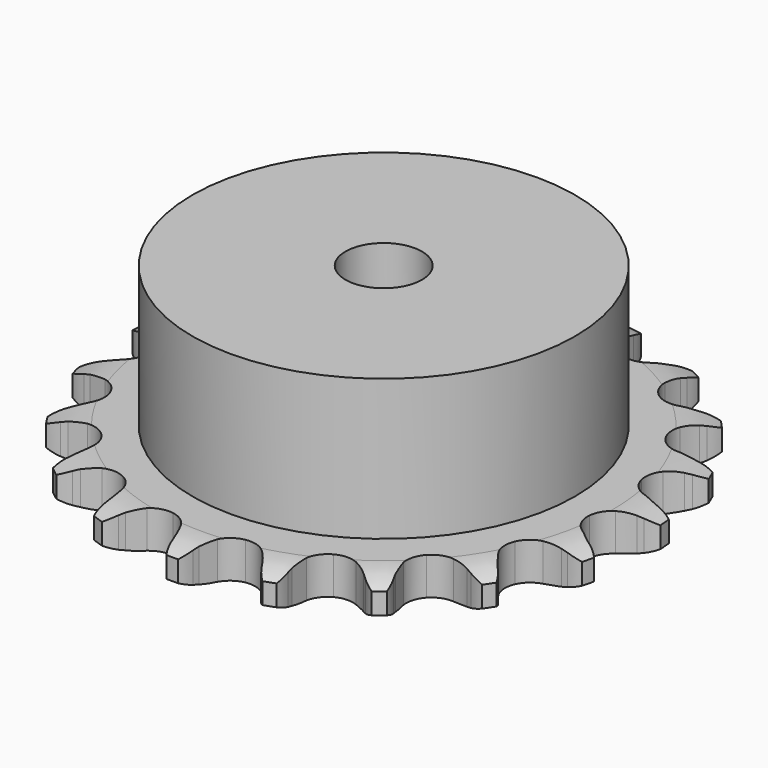
from build123d import *

# Parameters (mm, degrees)
PAD_DEPTH         = 5.9
SKETCH001_R       = 30
PAD001_DEPTH      = 28
SKETCH002_R       = 6
POCKET_DEPTH      = 0.0010001
POCKET_DEPTH_BACK = 28.001


with BuildPart() as part:
    # Sprocket → Pad (new body)
    with BuildSketch(Plane.XY):
        with BuildLine():
            ThreePointArc((-7.0122403069, 42.0220523473), (-5.7251903602, 40.8162732435), (-4.8161680281, 39.304956198))
            Line((-4.8161680281, 39.304956198), (-4.4445740823, 38.4339880913))
            ThreePointArc((-4.4445740823, 38.4339880913), (-3.8434739313, 37.2475347177), (-3.0921488771, 36.1500358968))
            ThreePointArc((-3.0921488771, 36.1500358968), (-1.7190118035, 35.0427826774), (0, 34.6471647632))
            ThreePointArc((0, 34.6471647632), (1.7190118035, 35.0427826774), (3.0921488771, 36.1500358968))
            ThreePointArc((3.0921488771, 36.1500358968), (3.8434739313, 37.2475347177), (4.4445740823, 38.4339880913))
            Line((4.4445740823, 38.4339880913), (4.8161680281, 39.304956198))
            ThreePointArc((4.8161680281, 39.304956198), (5.7251903602, 40.8162732435), (7.0122403069, 42.0220523473))
            ThreePointArc((7.0122403069, 42.0220523473), (7.8380385024, 40.4637012468), (8.2070836547, 38.7391124587))
            Line((8.2070836547, 38.7391124587), (8.2757407336, 37.7946794494))
            ThreePointArc((8.2757407336, 37.7946794494), (8.4590308397, 36.4773344923), (8.8132897456, 35.1953463384))
            ThreePointArc((8.8132897456, 35.1953463384), (9.7525019324, 33.7022302736), (11.2499160081, 32.7698858091))
            ThreePointArc((11.2499160081, 32.7698858091), (13.0042439372, 32.5859058333), (14.6625051893, 33.1873081402))
            Line((14.6625051893, 33.1873081402), (16.6832503317, 34.9083777587))
            ThreePointArc((16.6832503317, 34.9083777587), (16.9921635461, 35.2673512941), (17.3175131746, 35.611498054))
            ThreePointArc((17.3175131746, 35.611498054), (18.6680060118, 36.7457687046), (20.2768358772, 37.4683109361))
            ThreePointArc((20.2768358772, 37.4683109361), (20.5518942735, 35.7262593609), (20.3409704775, 33.9752847853))
            Line((20.3409704775, 33.9752847853), (20.0992506297, 33.0597308443))
            ThreePointArc((20.0992506297, 33.0597308443), (19.8448683639, 31.7542490704), (19.763671672, 30.4266948921))
            ThreePointArc((19.763671672, 30.4266948921), (20.1671807582, 28.7095182757), (21.2807290562, 27.3414812504))
            ThreePointArc((21.2807290562, 27.3414812504), (22.8802644588, 26.5978404698), (24.643951552, 26.6282205925))
            Line((24.643951552, 26.6282205925), (27.1140375404, 27.5999030367))
            ThreePointArc((27.1140375404, 27.5999030367), (27.5227715011, 27.839122439), (27.9422370596, 28.0589815266))
            ThreePointArc((27.9422370596, 28.0589815266), (29.5878535481, 28.6932899572), (31.3441216528, 28.8542966543))
            ThreePointArc((31.3441216528, 28.8542966543), (31.0386334047, 27.1173229232), (30.2705975264, 25.5297078244))
            Line((30.2705975264, 25.5297078244), (29.744694848, 24.7422474277))
            ThreePointArc((29.744694848, 24.7422474277), (29.0802064761, 23.5900980439), (28.5723531078, 22.3608389355))
            ThreePointArc((28.5723531078, 22.3608389355), (28.3964326229, 20.6056844985), (29.0054449066, 18.9502029514))
            ThreePointArc((29.0054449066, 18.9502029514), (30.2768533023, 17.7274863833), (31.9548433737, 17.1835521641))
            Line((31.9548433737, 17.1835521641), (34.6065980639, 17.300550564))
            ThreePointArc((34.6065980639, 17.300550564), (35.0708601042, 17.3940926992), (35.5389859908, 17.4658389708))
            ThreePointArc((35.5389859908, 17.4658389708), (37.3013980495, 17.5314480207), (39.0147854931, 17.1134716094))
            ThreePointArc((39.0147854931, 17.1134716094), (38.1618549924, 15.5698037782), (36.9199356366, 14.3175908866))
            Line((36.9199356366, 14.3175908866), (36.1668398431, 13.7435575867))
            ThreePointArc((36.1668398431, 13.7435575867), (35.1642529906, 12.8695938561), (34.2847767387, 11.871839116))
            ThreePointArc((34.2847767387, 11.871839116), (33.5484903968, 10.2689050758), (33.5869707355, 8.5053761199))
            ThreePointArc((33.5869707355, 8.5053761199), (34.3924752967, 6.9360840769), (35.8029320855, 5.8767792285))
            Line((35.8029320855, 5.8767792285), (38.3489967105, 5.126414992))
            ThreePointArc((38.3489967105, 5.126414992), (38.8184768346, 5.0641431182), (39.2845343456, 4.980001752))
            ThreePointArc((39.2845343456, 4.980001752), (40.9727572815, 4.4698016627), (42.4575919485, 3.5181363728))
            ThreePointArc((42.4575919485, 3.5181363728), (41.1496474495, 2.3350548034), (39.5684258487, 1.5539408159))
            Line((39.5684258487, 1.5539408159), (38.6697465548, 1.255540028))
            ThreePointArc((38.6697465548, 1.255540028), (37.437707064, 0.7544694818), (36.2819128267, 0.0963413178))
            ThreePointArc((36.2819128267, 0.0963413178), (35.0650486777, -1.1806695504), (34.5288271296, -2.8611401886))
            ThreePointArc((34.5288271296, -2.8611401886), (34.7811389385, -4.6069505637), (35.771217566, -6.0668339241))
            Line((35.771217566, -6.0668339241), (37.9356865176, -7.6032471889))
            ThreePointArc((37.9356865176, -7.6032471889), (38.3595092692, -7.8145849479), (38.7729938418, -8.0454959292))
            ThreePointArc((38.7729938418, -8.0454959292), (40.2040825042, -9.0762170616), (41.2994595188, -10.4584435293))
            ThreePointArc((41.2994595188, -10.4584435293), (39.6782371029, -11.1527335914), (37.9290631528, -11.3781028541))
            Line((37.9290631528, -11.3781028541), (36.9821862044, -11.3685347745))
            ThreePointArc((36.9821862044, -11.3685347745), (35.6542046711, -11.4424133677), (34.3473406882, -11.6895965571))
            ThreePointArc((34.3473406882, -11.6895965571), (32.7817648441, -12.5023003108), (31.7289493343, -13.9176075626))
            ThreePointArc((31.7289493343, -13.9176075626), (31.4007264914, -15.6507506265), (31.8631365756, -17.3530114844))
            Line((31.8631365756, -17.3530114844), (33.4114560576, -19.5089795604))
            ThreePointArc((33.4114560576, -19.5089795604), (33.7436936653, -19.8464814791), (34.0597978302, -20.1991392878))
            ThreePointArc((34.0597978302, -20.1991392878), (35.0786715569, -21.6386868352), (35.6658898231, -23.3016887956))
            ThreePointArc((35.6658898231, -23.3016887956), (33.9070740949, -23.4319502491), (32.1794979342, -23.0771525304))
            Line((32.1794979342, -23.0771525304), (31.287032141, -22.7606524332))
            ThreePointArc((31.287032141, -22.7606524332), (30.0070159702, -22.3993331815), (28.6907012321, -22.2087852623))
            ThreePointArc((28.6907012321, -22.2087852623), (26.9460681282, -22.4691128394), (25.4907475533, -23.4658862032))
            ThreePointArc((25.4907475533, -23.4658862032), (24.6175580964, -24.9985490125), (24.5021903298, -26.7587209907))
            Line((24.5021903298, -26.7587209907), (25.2665759016, -29.3006112834))
            ThreePointArc((25.2665759016, -29.3006112834), (25.4712252655, -29.7277037921), (25.6556942315, -30.1638924826))
            ThreePointArc((25.6556942315, -30.1638924826), (26.1519422448, -31.8562691315), (26.1673675518, -33.6198345179))
            ThreePointArc((26.1673675518, -33.6198345179), (24.4615534862, -33.1719515132), (22.942784798, -32.2754346511))
            Line((22.942784798, -32.2754346511), (22.2014426767, -31.6863002329))
            ThreePointArc((22.2014426767, -31.6863002329), (21.108101482, -30.9289376836), (19.9249791155, -30.3213074795))
            ThreePointArc((19.9249791155, -30.3213074795), (18.1903468193, -30.0010483476), (16.4902277452, -30.4712719629))
            ThreePointArc((16.4902277452, -30.4712719629), (15.1666953009, -31.6373667205), (14.4860515711, -33.2647078733))
            Line((14.4860515711, -33.2647078733), (14.3836701954, -35.9170671281))
            ThreePointArc((14.3836701954, -35.9170671281), (14.4385543814, -36.3874681265), (14.4713980737, -36.8599198859))
            ThreePointArc((14.4713980737, -36.8599198859), (14.3912442013, -38.6217303663), (13.8332049777, -40.2947495047))
            ThreePointArc((13.8332049777, -40.2947495047), (12.3652439973, -39.3172571149), (11.2198649351, -37.9761726224))
            Line((11.2198649351, -37.9761726224), (10.7099824076, -37.1782457387))
            ThreePointArc((10.7099824076, -37.1782457387), (9.9217966723, -36.1069118757), (9.0000763438, -35.1480455477))
            ThreePointArc((9.0000763438, -35.1480455477), (7.4634191801, -34.2819047531), (5.7027358886, -34.174622595))
            ThreePointArc((5.7027358886, -34.174622595), (4.072285734, -34.84778484), (2.9001243504, -36.1659475027))
            Line((2.9001243504, -36.1659475027), (1.9420706379, -38.6413514388))
            ThreePointArc((1.9420706379, -38.6413514388), (1.8412420928, -39.1040856796), (1.7189013878, -39.561603029))
            ThreePointArc((1.7189013878, -39.561603029), (1.0710315454, -41.2019278381), (0, -42.6031031452))
            ThreePointArc((0, -42.6031031452), (-1.0710315454, -41.2019278381), (-1.7189013878, -39.561603029))
            Line((-1.7189013878, -39.561603029), (-1.9420706379, -38.6413514388))
            ThreePointArc((-1.9420706379, -38.6413514388), (-2.3396887593, -37.3721419097), (-2.9001243504, -36.1659475027))
            ThreePointArc((-2.9001243504, -36.1659475027), (-4.072285734, -34.84778484), (-5.7027358886, -34.174622595))
            ThreePointArc((-5.7027358886, -34.174622595), (-7.4634191801, -34.2819047531), (-9.0000763438, -35.1480455477))
            Line((-9.0000763438, -35.1480455477), (-10.7099824076, -37.1782457387))
            ThreePointArc((-10.7099824076, -37.1782457387), (-10.9555973464, -37.5831687869), (-11.2198649351, -37.9761726224))
            ThreePointArc((-11.2198649351, -37.9761726224), (-12.3652439973, -39.3172571149), (-13.8332049777, -40.2947495047))
            ThreePointArc((-13.8332049777, -40.2947495047), (-14.3912442013, -38.6217303663), (-14.4713980737, -36.8599198859))
            Line((-14.4713980737, -36.8599198859), (-14.3836701954, -35.9170671281))
            ThreePointArc((-14.3836701954, -35.9170671281), (-14.3476326099, -34.5875204792), (-14.4860515711, -33.2647078733))
            ThreePointArc((-14.4860515711, -33.2647078733), (-15.1666953009, -31.6373667205), (-16.4902277452, -30.4712719629))
            ThreePointArc((-16.4902277452, -30.4712719629), (-18.1903468193, -30.0010483476), (-19.9249791155, -30.3213074795))
            Line((-19.9249791155, -30.3213074795), (-22.2014426767, -31.6863002329))
            ThreePointArc((-22.2014426767, -31.6863002329), (-22.5652278195, -31.9895323932), (-22.942784798, -32.2754346511))
            ThreePointArc((-22.942784798, -32.2754346511), (-24.4615534862, -33.1719515132), (-26.1673675518, -33.6198345179))
            ThreePointArc((-26.1673675518, -33.6198345179), (-26.1519422448, -31.8562691315), (-25.6556942315, -30.1638924826))
            Line((-25.6556942315, -30.1638924826), (-25.2665759016, -29.3006112834))
            ThreePointArc((-25.2665759016, -29.3006112834), (-24.8007878407, -28.0548045241), (-24.5021903298, -26.7587209907))
            ThreePointArc((-24.5021903298, -26.7587209907), (-24.6175580964, -24.9985490125), (-25.4907475533, -23.4658862032))
            ThreePointArc((-25.4907475533, -23.4658862032), (-26.9460681282, -22.4691128394), (-28.6907012321, -22.2087852623))
            Line((-28.6907012321, -22.2087852623), (-31.287032141, -22.7606524332))
            ThreePointArc((-31.287032141, -22.7606524332), (-31.7295657227, -22.9293337959), (-32.1794979342, -23.0771525304))
            ThreePointArc((-32.1794979342, -23.0771525304), (-33.9070740949, -23.4319502491), (-35.6658898231, -23.3016887956))
            ThreePointArc((-35.6658898231, -23.3016887956), (-35.0786715569, -21.6386868352), (-34.0597978302, -20.1991392878))
            Line((-34.0597978302, -20.1991392878), (-33.4114560576, -19.5089795604))
            ThreePointArc((-33.4114560576, -19.5089795604), (-32.5663928852, -18.4819151837), (-31.8631365756, -17.3530114844))
            ThreePointArc((-31.8631365756, -17.3530114844), (-31.4007264914, -15.6507506265), (-31.7289493343, -13.9176075626))
            ThreePointArc((-31.7289493343, -13.9176075626), (-32.7817648441, -12.5023003108), (-34.3473406882, -11.6895965571))
            Line((-34.3473406882, -11.6895965571), (-36.9821862044, -11.3685347745))
            ThreePointArc((-36.9821862044, -11.3685347745), (-37.455512845, -11.3843860966), (-37.9290631528, -11.3781028541))
            ThreePointArc((-37.9290631528, -11.3781028541), (-39.6782371029, -11.1527335914), (-41.2994595188, -10.4584435293))
            ThreePointArc((-41.2994595188, -10.4584435293), (-40.2040825042, -9.0762170616), (-38.7729938418, -8.0454959292))
            Line((-38.7729938418, -8.0454959292), (-37.9356865176, -7.6032471889))
            ThreePointArc((-37.9356865176, -7.6032471889), (-36.8029239408, -6.9062235567), (-35.771217566, -6.0668339241))
            ThreePointArc((-35.771217566, -6.0668339241), (-34.7811389385, -4.6069505637), (-34.5288271296, -2.8611401886))
            ThreePointArc((-34.5288271296, -2.8611401886), (-35.0650486777, -1.1806695504), (-36.2819128267, 0.0963413178))
            Line((-36.2819128267, 0.0963413178), (-38.6697465548, 1.255540028))
            ThreePointArc((-38.6697465548, 1.255540028), (-39.1225739683, 1.3942364832), (-39.5684258487, 1.5539408159))
            ThreePointArc((-39.5684258487, 1.5539408159), (-41.1496474495, 2.3350548034), (-42.4575919485, 3.5181363728))
            ThreePointArc((-42.4575919485, 3.5181363728), (-40.9727572815, 4.4698016627), (-39.2845343456, 4.980001752))
            Line((-39.2845343456, 4.980001752), (-38.3489967105, 5.126414992))
            ThreePointArc((-38.3489967105, 5.126414992), (-37.0512871313, 5.4178645538), (-35.8029320855, 5.8767792285))
            ThreePointArc((-35.8029320855, 5.8767792285), (-34.3924752967, 6.9360840769), (-33.5869707355, 8.5053761199))
            ThreePointArc((-33.5869707355, 8.5053761199), (-33.5484903968, 10.2689050758), (-34.2847767387, 11.871839116))
            Line((-34.2847767387, 11.871839116), (-36.1668398431, 13.7435575867))
            ThreePointArc((-36.1668398431, 13.7435575867), (-36.5500971529, 14.0217719062), (-36.9199356366, 14.3175908866))
            ThreePointArc((-36.9199356366, 14.3175908866), (-38.1618549924, 15.5698037782), (-39.0147854931, 17.1134716094))
            ThreePointArc((-39.0147854931, 17.1134716094), (-37.3013980495, 17.5314480207), (-35.5389859908, 17.4658389708))
            Line((-35.5389859908, 17.4658389708), (-34.6065980639, 17.300550564))
            ThreePointArc((-34.6065980639, 17.300550564), (-33.2845684511, 17.1548429731), (-31.9548433737, 17.1835521641))
            ThreePointArc((-31.9548433737, 17.1835521641), (-30.2768533023, 17.7274863833), (-29.0054449066, 18.9502029514))
            ThreePointArc((-29.0054449066, 18.9502029514), (-28.3964326229, 20.6056844985), (-28.5723531078, 22.3608389355))
            Line((-28.5723531078, 22.3608389355), (-29.744694848, 24.7422474277))
            ThreePointArc((-29.744694848, 24.7422474277), (-30.0168501778, 25.1298307731), (-30.2705975264, 25.5297078244))
            ThreePointArc((-30.2705975264, 25.5297078244), (-31.0386334047, 27.1173229232), (-31.3441216528, 28.8542966543))
            ThreePointArc((-31.3441216528, 28.8542966543), (-29.5878535481, 28.6932899572), (-27.9422370596, 28.0589815266))
            Line((-27.9422370596, 28.0589815266), (-27.1140375404, 27.5999030367))
            ThreePointArc((-27.1140375404, 27.5999030367), (-25.910950316, 27.0328279714), (-24.643951552, 26.6282205925))
            ThreePointArc((-24.643951552, 26.6282205925), (-22.8802644588, 26.5978404698), (-21.2807290562, 27.3414812504))
            ThreePointArc((-21.2807290562, 27.3414812504), (-20.1671807582, 28.7095182757), (-19.763671672, 30.4266948921))
            Line((-19.763671672, 30.4266948921), (-20.0992506297, 33.0597308443))
            ThreePointArc((-20.0992506297, 33.0597308443), (-20.2308117265, 33.5146825461), (-20.3409704775, 33.9752847853))
            ThreePointArc((-20.3409704775, 33.9752847853), (-20.5518942735, 35.7262593609), (-20.2768358772, 37.4683109361))
            ThreePointArc((-20.2768358772, 37.4683109361), (-18.6680060118, 36.7457687046), (-17.3175131746, 35.611498054))
            Line((-17.3175131746, 35.611498054), (-16.6832503317, 34.9083777587))
            ThreePointArc((-16.6832503317, 34.9083777587), (-15.7294786643, 33.9813866015), (-14.6625051893, 33.1873081402))
            ThreePointArc((-14.6625051893, 33.1873081402), (-13.0042439372, 32.5859058333), (-11.2499160081, 32.7698858091))
            ThreePointArc((-11.2499160081, 32.7698858091), (-9.7525019324, 33.7022302736), (-8.8132897456, 35.1953463384))
            Line((-8.8132897456, 35.1953463384), (-8.2757407336, 37.7946794494))
            ThreePointArc((-8.2757407336, 37.7946794494), (-8.2524509112, 38.2676984314), (-8.2070836547, 38.7391124587))
            ThreePointArc((-8.2070836547, 38.7391124587), (-7.8380385024, 40.4637012468), (-7.0122403069, 42.0220523473))
        make_face()
    extrude(amount=PAD_DEPTH)

    # Sketch → Groove (revolve, cut)
    with BuildSketch(Plane.XZ):
        with BuildLine():
            Line((35.7834313734, 0), (41.45, 0))
            Line((47.1165686266, 0), (41.45, 0))
            Line((47.1165686266, 5.9), (47.1165686266, 0))
            Line((41.45, 5.9), (47.1165686266, 5.9))
            Line((35.7834313734, 5.9), (41.45, 5.9))
            ThreePointArc((41.45, 4.6), (38.6903197441, 5.5708326483), (35.7834313734, 5.9))
            Line((41.45, 1.3), (41.45, 4.6))
            ThreePointArc((35.7834313734, 0), (38.6903197441, 0.3291673517), (41.45, 1.3))
        make_face()
    revolve(axis=Axis((0, 0, 0), (0, 0, 1)), mode=Mode.SUBTRACT)

    # Sketch001 → Pad001 (join)
    with BuildSketch(Plane.XY):
        Circle(SKETCH001_R)
    extrude(amount=PAD001_DEPTH)

    # Sketch002 → Pocket (cut, two sides)
    with BuildSketch(Plane.XY) as pocket_sk:
        Circle(SKETCH002_R)
    extrude(amount=-POCKET_DEPTH, mode=Mode.SUBTRACT)
    extrude(pocket_sk.sketch, amount=POCKET_DEPTH_BACK, mode=Mode.SUBTRACT)


solid = part.part
